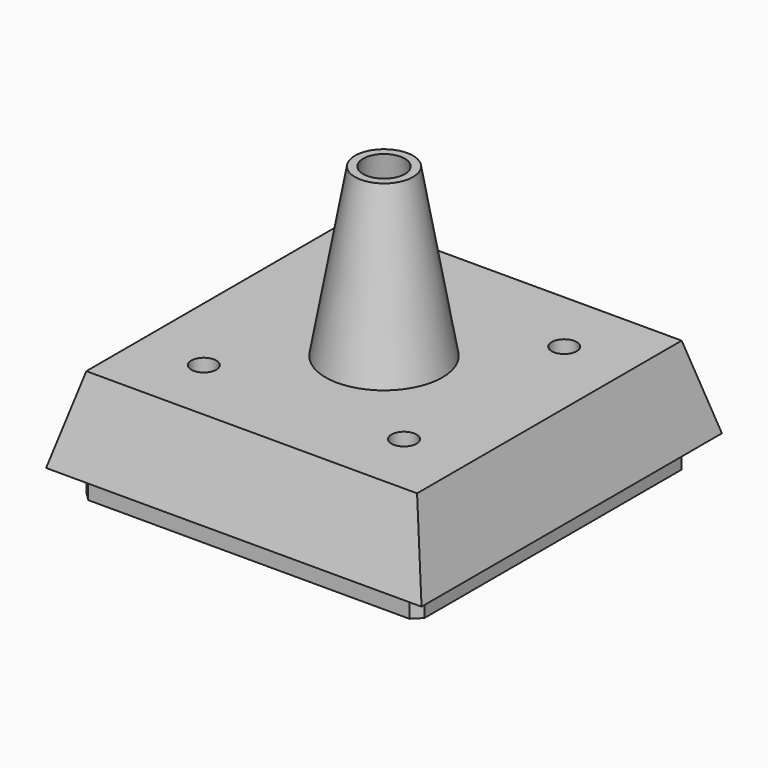
from build123d import *

# Parameters (mm, degrees)
SKETCH004_W     = 40.5
SKETCH004_H     = 40.5
SKETCH004_W_2   = 37
SKETCH004_H_2   = 37
PAD001_DEPTH    = 3.25
SKETCH005_W     = 45
SKETCH005_H     = 45
PAD002_DEPTH    = 10
PAD002_TAPER    = 15
SKETCH006_W     = 37
SKETCH006_H     = 37
POCKET003_DEPTH = 7
POCKET003_TAPER = 15
SKETCH007_R     = 7
PAD003_DEPTH    = 20
PAD003_TAPER    = 10
SKETCH008_R     = 2.5
POCKET004_DEPTH = 25
POCKET004_TAPER = -10
SKETCH009_R     = 1.5
POCKET005_DEPTH = 13.251
CHAMFER001_SIZE = 1


with BuildPart() as part:
    # Sketch004 (on Face1 of Binder) → Pad001 (new body)
    with BuildSketch(Plane.XY.offset(37)):
        Rectangle(SKETCH004_W, SKETCH004_H)
        Rectangle(SKETCH004_W_2, SKETCH004_H_2, mode=Mode.SUBTRACT)
    extrude(amount=PAD001_DEPTH)

    # Sketch005 (on Face10 of Pad001) → Pad002 (join)
    with BuildSketch(Plane.XY.offset(40.25)):
        Rectangle(SKETCH005_W, SKETCH005_H)
    extrude(amount=PAD002_DEPTH, taper=PAD002_TAPER)

    # Sketch006 (on Face15 of Pad002) → Pocket003 (cut)
    with BuildSketch(Plane(origin=(0, 0, 40.25), x_dir=(1, 0, 0), z_dir=(0, 0, -1))):
        Rectangle(SKETCH006_W, SKETCH006_H)
    extrude(amount=-POCKET003_DEPTH, taper=POCKET003_TAPER, mode=Mode.SUBTRACT)

    # Sketch007 (on Face19 of Pocket003) → Pad003 (join)
    with BuildSketch(Plane.XY.offset(50.25)):
        Circle(SKETCH007_R)
    extrude(amount=PAD003_DEPTH, taper=PAD003_TAPER)

    # Sketch008 (on Face22 of Pad003) → Pocket004 (cut)
    with BuildSketch(Plane.XY.offset(70.25)):
        Circle(SKETCH008_R)
    extrude(amount=-POCKET004_DEPTH, taper=POCKET004_TAPER, mode=Mode.SUBTRACT)

    # Sketch009 (on Face19 of Pocket004) → Pocket005 (cut, through all)
    with BuildSketch(Plane.XY.offset(50.25)):
        with Locations((-12, 12)):
            Circle(SKETCH009_R)
        with Locations((12, 12)):
            Circle(SKETCH009_R)
        with Locations((-12, -12)):
            Circle(SKETCH009_R)
        with Locations((12, -12)):
            Circle(SKETCH009_R)
    extrude(amount=-POCKET005_DEPTH, mode=Mode.SUBTRACT)

    # Chamfer001
    chamfer001_edges = [part.edges().sort_by_distance(p)[0] for p in [
        (20.25, -20.25, 38.625),
        (-20.25, -20.25, 38.625),
        (-20.25, 20.25, 38.625),
        (20.25, 20.25, 38.625),
    ]]
    chamfer(chamfer001_edges, length=CHAMFER001_SIZE)


solid = part.part
